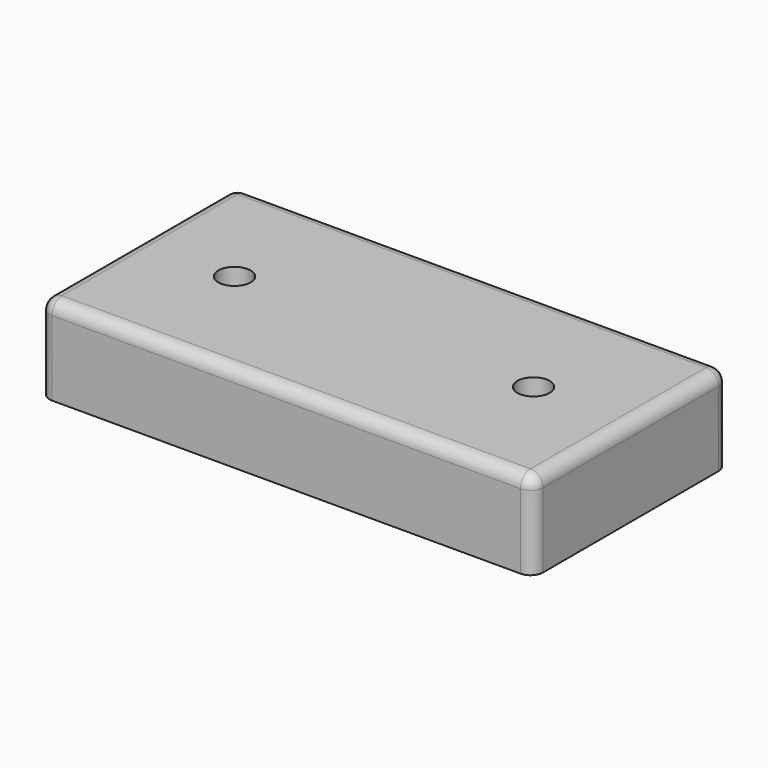
from build123d import *

# Parameters (mm, degrees)
F0_W     = 39.6
F0_H     = 19.6
F0_R     = 1.3
F1_DEPTH = 7
F2_R     = 1


with BuildPart() as f1:
    # F0 (on Top) → F1 (new body)
    with BuildSketch(Plane.XY):
        Rectangle(F0_W, F0_H)
        with Locations((-12, 0)):
            Circle(F0_R, mode=Mode.SUBTRACT)
        with Locations((12, 0)):
            Circle(F0_R, mode=Mode.SUBTRACT)
    extrude(amount=F1_DEPTH)

    # F2
    f2_edges = [f1.edges().sort_by_distance(p)[0] for p in [
        (0, 9.8, 7),
        (19.8, 0, 7),
        (0, -9.8, 7),
        (19.8, 9.8, 3.5),
        (19.8, -9.8, 3.5),
        (-19.8, -9.8, 3.5),
        (-19.8, 9.8, 3.5),
        (-19.8, 0, 7),
    ]]
    fillet(f2_edges, radius=F2_R)


solid = f1.part
